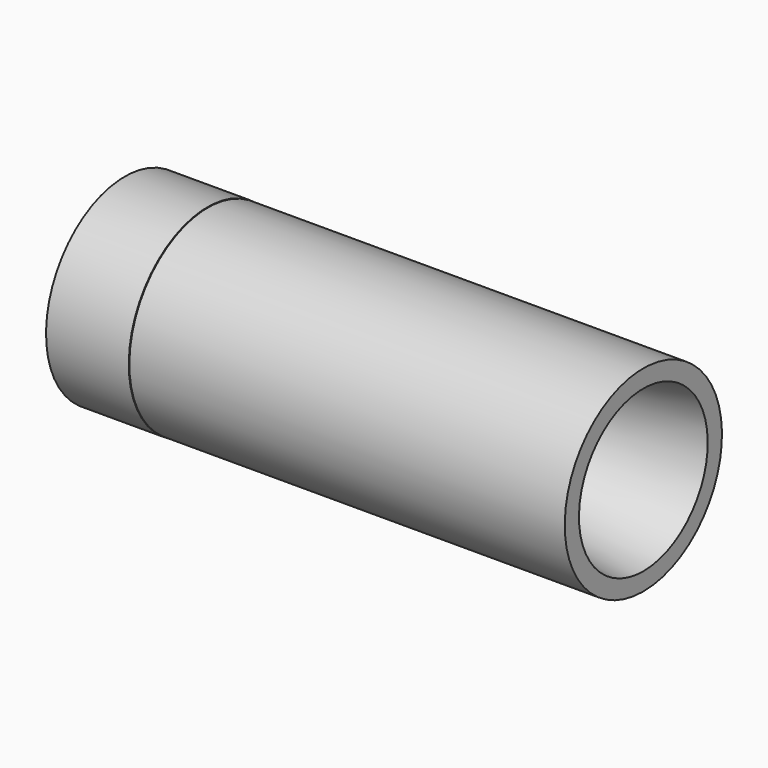
from build123d import *

# Parameters (mm, degrees)
F0_W = 190
F0_H = 226.24976933


with BuildPart() as f1:
    # F0 (on Front) → F1 (revolve)
    with BuildSketch(Plane.XZ):
        Polygon((0, -70.5645144836), (-250.0000075567, -125.6720480688), (-250.0000075567, -225.6720480688), (749.9999924433, -225.6720480688), (749.9999924433, -184.8118322838), align=None)
    revolve(axis=Axis((-3.5921850387, 0, 0), (1, 0, 0)))


with BuildPart() as f2:
    # F0 (on Front) → F2 (revolve)
    with BuildSketch(Plane.XZ):
        with Locations((-345.9563243389, -113.124884665)):
            Rectangle(F0_W, F0_H)
    revolve(axis=Axis((-3.5921850387, 0, 0), (1, 0, 0)))


solid = Compound([f1.part, f2.part])
